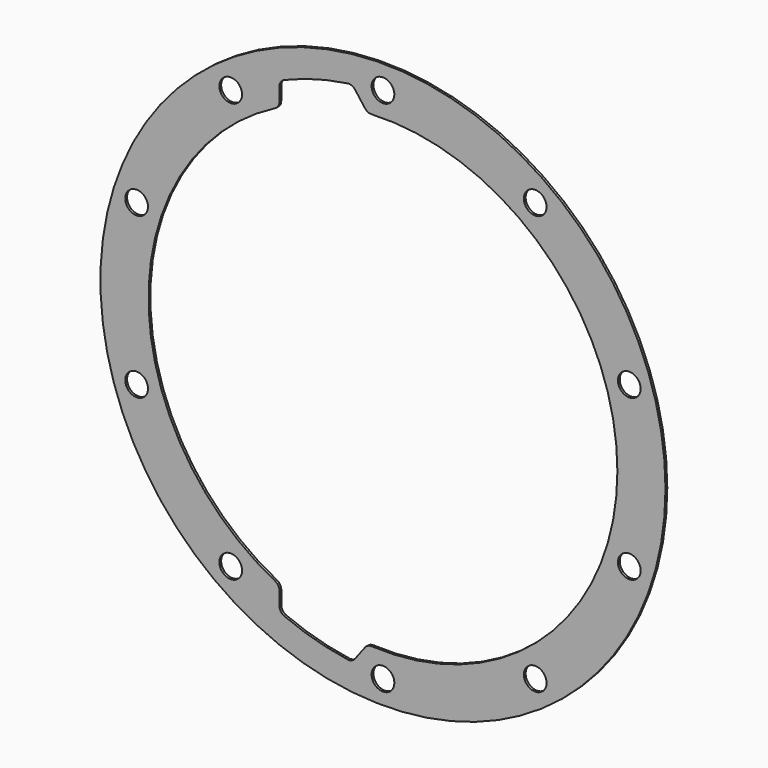
from build123d import *

# Parameters (mm, degrees)
F0_R     = 135.763
F0_R_2   = 5.461
F1_DEPTH = 1.0922


with BuildPart() as f1:
    # F0 (on Front) → F1 (new body)
    with BuildSketch(Plane.XZ):
        with BuildLine():
            ThreePointArc((-49.730106, 103.42222), (-50.285138, 101.441998), (-51.788522, 100.038724))
            ThreePointArc((-51.788522, 100.038724), (-112.649, 0), (-51.788522, -100.038724))
            ThreePointArc((-51.788522, -100.038724), (-50.285138, -101.441998), (-49.730106, -103.42222))
            Line((-49.730106, -103.42222), (-49.730106, -109.893576))
            ThreePointArc((-49.730106, -109.893576), (-49.096339, -111.997773), (-47.405883, -113.401933))
            ThreePointArc((-47.405883, -113.401933), (-32.475361, -118.611287), (-16.996183, -121.844388))
            ThreePointArc((-16.996183, -121.844388), (-15.00917, -121.594865), (-13.423186, -120.372107))
            Line((-13.423186, -120.372107), (-8.61764, -114.025335))
            ThreePointArc((-8.61764, -114.025335), (-7.193966, -112.873921), (-5.397561, -112.519614))
            ThreePointArc((-5.397561, -112.519614), (112.649, 0), (-5.397561, 112.519614))
            ThreePointArc((-5.397561, 112.519614), (-7.193966, 112.873921), (-8.61764, 114.025335))
            Line((-8.61764, 114.025335), (-13.423186, 120.372107))
            ThreePointArc((-13.423186, 120.372107), (-15.00917, 121.594865), (-16.996183, 121.844388))
            ThreePointArc((-16.996183, 121.844388), (-32.475361, 118.611287), (-47.405883, 113.401933))
            ThreePointArc((-47.405883, 113.401933), (-49.096339, 111.997773), (-49.730106, 109.893576))
            Line((-49.730106, 109.893576), (-49.730106, 103.42222))
        make_face()
        Circle(F0_R)
        with Locations((-73.155753, -100.690255)):
            Circle(F0_R_2, mode=Mode.SUBTRACT)
        with Locations((-118.368494, -38.460255)):
            Circle(F0_R_2, mode=Mode.SUBTRACT)
        with Locations((0, -124.46)):
            Circle(F0_R_2, mode=Mode.SUBTRACT)
        with Locations((73.155753, -100.690255)):
            Circle(F0_R_2, mode=Mode.SUBTRACT)
        with Locations((118.368494, -38.460255)):
            Circle(F0_R_2, mode=Mode.SUBTRACT)
        with Locations((-118.368494, 38.460255)):
            Circle(F0_R_2, mode=Mode.SUBTRACT)
        with Locations((-73.155753, 100.690255)):
            Circle(F0_R_2, mode=Mode.SUBTRACT)
        with BuildLine():
            ThreePointArc((-51.788522, -100.038724), (-112.649, 0), (-51.788522, 100.038724))
            ThreePointArc((-51.788522, 100.038724), (-50.285138, 101.441998), (-49.730106, 103.42222))
            Line((-49.730106, 103.42222), (-49.730106, 109.893576))
            ThreePointArc((-49.730106, 109.893576), (-49.096339, 111.997773), (-47.405883, 113.401933))
            ThreePointArc((-47.405883, 113.401933), (-32.475361, 118.611287), (-16.996183, 121.844388))
            ThreePointArc((-16.996183, 121.844388), (-15.00917, 121.594865), (-13.423186, 120.372107))
            Line((-13.423186, 120.372107), (-8.61764, 114.025335))
            ThreePointArc((-8.61764, 114.025335), (-7.193966, 112.873921), (-5.397561, 112.519614))
            ThreePointArc((-5.397561, 112.519614), (112.649, 0), (-5.397561, -112.519614))
            ThreePointArc((-5.397561, -112.519614), (-7.193966, -112.873921), (-8.61764, -114.025335))
            Line((-8.61764, -114.025335), (-13.423186, -120.372107))
            ThreePointArc((-13.423186, -120.372107), (-15.00917, -121.594865), (-16.996183, -121.844388))
            ThreePointArc((-16.996183, -121.844388), (-32.475361, -118.611287), (-47.405883, -113.401933))
            ThreePointArc((-47.405883, -113.401933), (-49.096339, -111.997773), (-49.730106, -109.893576))
            Line((-49.730106, -109.893576), (-49.730106, -103.42222))
            ThreePointArc((-49.730106, -103.42222), (-50.285138, -101.441998), (-51.788522, -100.038724))
        make_face(mode=Mode.SUBTRACT)
        with Locations((118.368494, 38.460255)):
            Circle(F0_R_2, mode=Mode.SUBTRACT)
        with Locations((0, 124.46)):
            Circle(F0_R_2, mode=Mode.SUBTRACT)
        with Locations((73.155753, 100.690255)):
            Circle(F0_R_2, mode=Mode.SUBTRACT)
    extrude(amount=F1_DEPTH)


solid = f1.part
